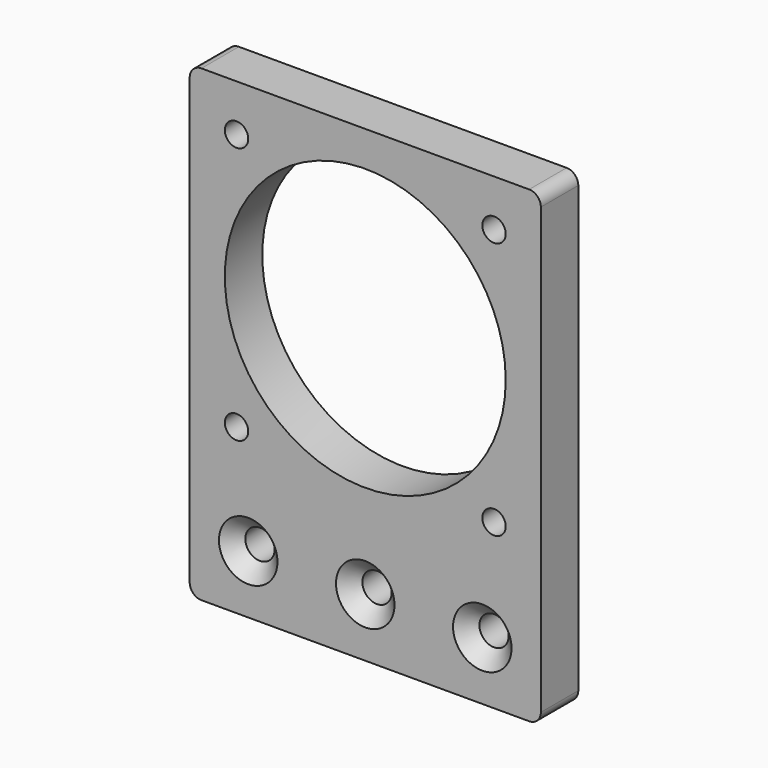
from build123d import *

# Parameters (mm, degrees)
F0_R           = 24
F1_DEPTH       = 8
F2_D           = 5
F2_CSINK_D     = 10
F2_CSINK_ANGLE = 90
F3_D           = 4


with BuildPart() as f1:
    # F0 (on Front) → F1 (new body)
    with BuildSketch(Plane.XZ):
        with BuildLine():
            ThreePointArc((0, 2), (0.585786, 0.585786), (2, 0))
            Line((2, 0), (58, 0))
            ThreePointArc((58, 0), (59.414214, 0.585786), (60, 2))
            Line((60, 2), (60, 78))
            ThreePointArc((60, 78), (59.414214, 79.414214), (58, 80))
            Line((58, 80), (2, 80))
            ThreePointArc((2, 80), (0.585786, 79.414214), (0, 78))
            Line((0, 78), (0, 2))
        make_face()
        with Locations((30, 50)):
            Circle(F0_R, mode=Mode.SUBTRACT)
    extrude(amount=-F1_DEPTH)

    # F2 (through all)
    with Locations(Plane.XZ):
        with Locations((10, 10), (30, 10), (50, 10)):
            CounterSinkHole(F2_D / 2, F2_CSINK_D / 2, counter_sink_angle=F2_CSINK_ANGLE)

    # F3 (through all)
    with Locations(Plane.XZ):
        with Locations((8, 72), (52, 72), (52, 28), (8, 28)):
            Hole(F3_D / 2)


solid = f1.part
